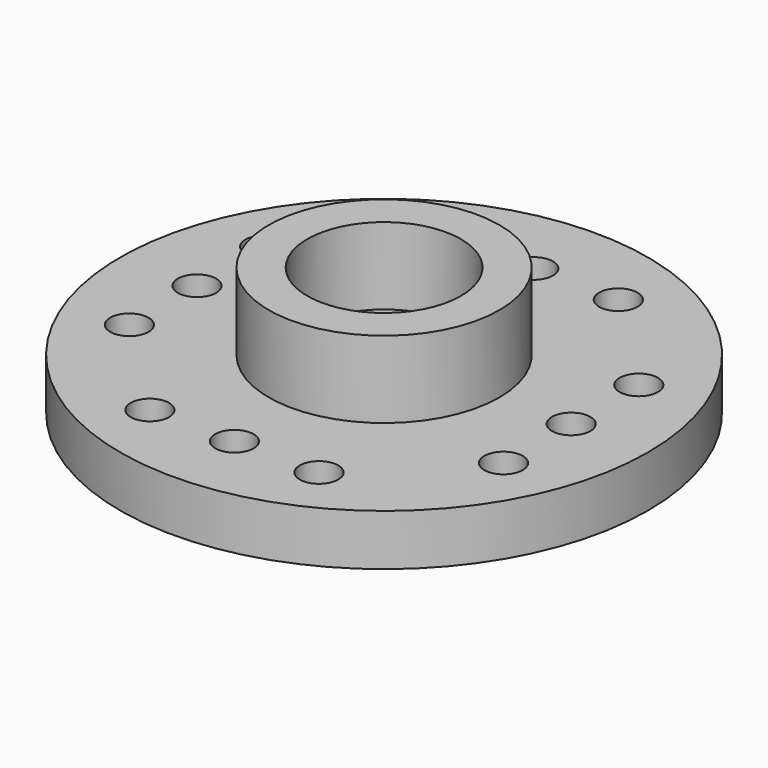
from build123d import *

# Parameters (mm, degrees)
SKETCH_R           = 10.3
PAD_DEPTH          = 2
SKETCH001_R        = 4.3
SKETCH001_R_2      = 3.3
POCKET_DEPTH       = 1
SKETCH002_R        = 2.8
POCKET001_DEPTH    = 1
SKETCH003_R        = 1.5
POCKET002_DEPTH    = 1.001
SKETCH004_R        = 4.5
SKETCH004_R_2      = 3
PAD001_DEPTH       = 3
SKETCH005_R        = 0.75
POCKET003_DEPTH    = 5
POLARPATTERN_COUNT = 4


with BuildPart() as part:
    # Sketch → Pad (new body)
    with BuildSketch(Plane.XY):
        Circle(SKETCH_R)
    extrude(amount=PAD_DEPTH)

    # Sketch001 (on Face2 of Pad) → Pocket (cut)
    with BuildSketch(Plane(origin=(0, 0, 0), x_dir=(1, 0, 0), z_dir=(0, 0, -1))):
        Circle(SKETCH001_R)
        Circle(SKETCH001_R_2, mode=Mode.SUBTRACT)
    extrude(amount=-POCKET_DEPTH, mode=Mode.SUBTRACT)

    # Sketch002 (on Face7 of Pocket) → Pocket001 (cut)
    with BuildSketch(Plane(origin=(0, 0, 0), x_dir=(1, 0, 0), z_dir=(0, 0, -1))):
        Circle(SKETCH002_R)
    extrude(amount=-POCKET001_DEPTH, mode=Mode.SUBTRACT)

    # Sketch003 (on Face9 of Pocket001) → Pocket002 (cut, through all)
    with BuildSketch(Plane(origin=(0, 0, 1), x_dir=(1, 0, 0), z_dir=(0, 0, -1))):
        Circle(SKETCH003_R)
    extrude(amount=-POCKET002_DEPTH, mode=Mode.SUBTRACT)

    # Sketch004 (on Face3 of Pocket002) → Pad001 (join)
    with BuildSketch(Plane.XY.offset(2)):
        Circle(SKETCH004_R)
        Circle(SKETCH004_R_2, mode=Mode.SUBTRACT)
    extrude(amount=PAD001_DEPTH)

    # Sketch005 (on Face2 of Pad001) → Pocket003 (cut)
    with BuildSketch(Plane(origin=(0, 0, 0), x_dir=(1, 0, 0), z_dir=(0, 0, -1))):
        with Locations((-3.3, 7.3)):
            Circle(SKETCH005_R)
        with Locations((0, 7.3)):
            Circle(SKETCH005_R)
        with Locations((3.3, 7.3)):
            Circle(SKETCH005_R)
    pocket003 = extrude(amount=-POCKET003_DEPTH, mode=Mode.SUBTRACT)

    # PolarPattern: Pocket003 ×4 about axis
    polarpattern_axis = Axis((0, 0, 0), (0, 0, -1))
    for i in range(1, POLARPATTERN_COUNT):
        add(pocket003.rotate(polarpattern_axis, i * 360 / POLARPATTERN_COUNT), mode=Mode.SUBTRACT)


solid = part.part
